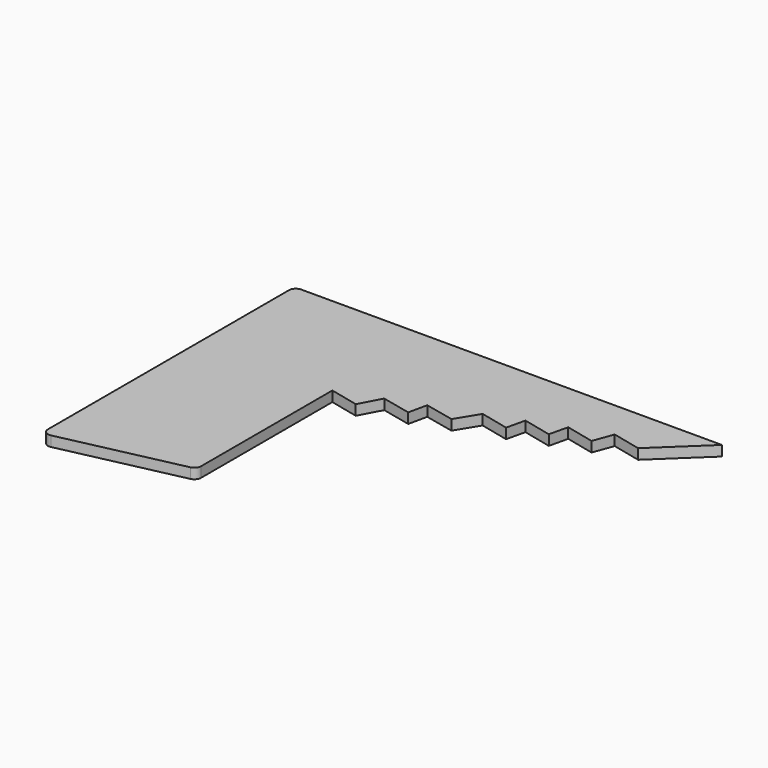
from build123d import *

# Parameters (mm, degrees)
F1_DEPTH = 3


with BuildPart() as f1:
    # F0 (on Top) → F1 (new body)
    with BuildSketch(Plane.XY):
        with BuildLine():
            Line((44.865233, 76.85111), (-76.134767, 76.85111))
            ThreePointArc((-76.134767, 76.85111), (-77.54898, 76.265324), (-78.134767, 74.85111))
            Line((-78.134767, 74.85111), (-78.134767, -13.489018))
            ThreePointArc((-78.134767, -13.489018), (-77.389263, -15.046657), (-75.708528, -15.443071))
            Line((-75.708528, -15.443071), (-40.880867, -7.8461))
            ThreePointArc((-40.880867, -7.8461), (-39.749467, -7.146545), (-39.307105, -5.892048))
            Line((-39.307105, -5.892048), (-39.307105, 36.074161))
            Line((-39.307105, 36.074161), (-39.307105, 42.227437))
            Line((-39.307105, 42.227437), (-30.88689, 40.253897))
            Line((-30.88689, 40.253897), (-27.519081, 46.517927))
            Line((-27.519081, 46.517927), (-18.964279, 44.593372))
            Line((-18.964279, 44.593372), (-17.757622, 50.070808))
            Line((-17.757622, 50.070808), (-9.134416, 48.17115))
            Line((-9.134416, 48.17115), (-5.162104, 54.655201))
            Line((-5.162104, 54.655201), (3.258111, 52.681661))
            Line((3.258111, 52.681661), (4.549114, 58.189796))
            Line((4.549114, 58.189796), (12.969329, 56.216255))
            Line((12.969329, 56.216255), (14.260333, 61.72439))
            Line((14.260333, 61.72439), (22.680548, 59.75085))
            Line((22.680548, 59.75085), (24.824019, 65.569257))
            Line((24.824019, 65.569257), (33.244234, 63.595717))
            Line((33.244234, 63.595717), (47.234441, 76.85111))
            Line((47.234441, 76.85111), (44.865233, 76.85111))
        make_face()
    extrude(amount=F1_DEPTH)


solid = f1.part
